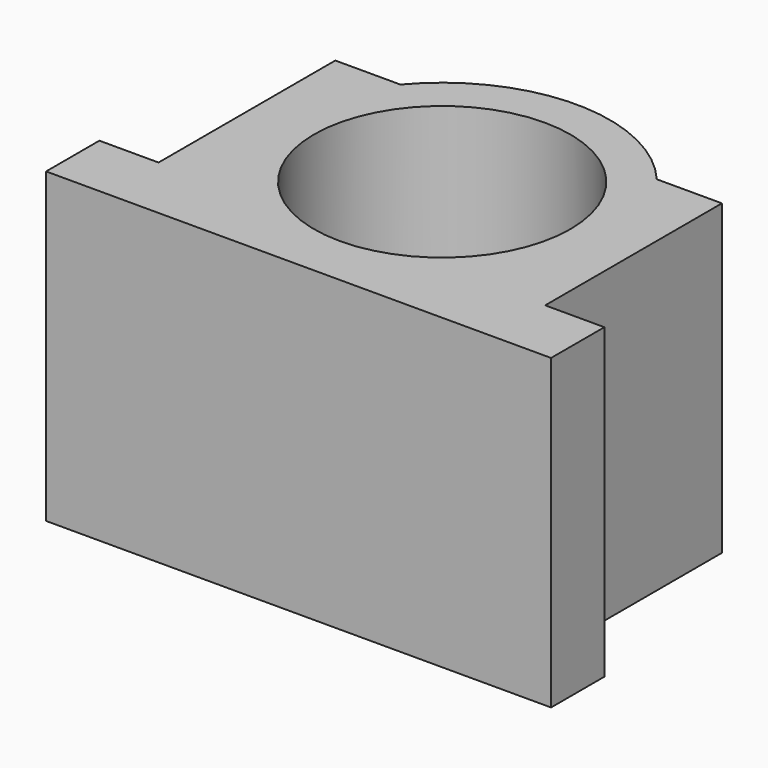
from build123d import *

# Parameters (mm, degrees)
F0_R     = 32.5
F1_DEPTH = 78


with BuildPart() as f1:
    # F0 (on Top) → F1 (new body)
    with BuildSketch(Plane.XY):
        with BuildLine():
            Line((-64, -28.442004), (-64, -45.328131))
            Line((-64, -45.328131), (64, -45.328131))
            Line((64, -45.328131), (64, -28.442004))
            Line((64, -28.442004), (49, -28.442004))
            Line((49, -28.442004), (49, 27.557996))
            Line((49, 27.557996), (32.5, 27.557996))
            ThreePointArc((32.5, 27.557996), (0, 42.671869), (-32.5, 27.557996))
            Line((-32.5, 27.557996), (-49, 27.557996))
            Line((-49, 27.557996), (-49, -28.442004))
            Line((-49, -28.442004), (-64, -28.442004))
        make_face()
        with Locations((0, 0.171869)):
            Circle(F0_R, mode=Mode.SUBTRACT)
    extrude(amount=F1_DEPTH)


solid = f1.part
